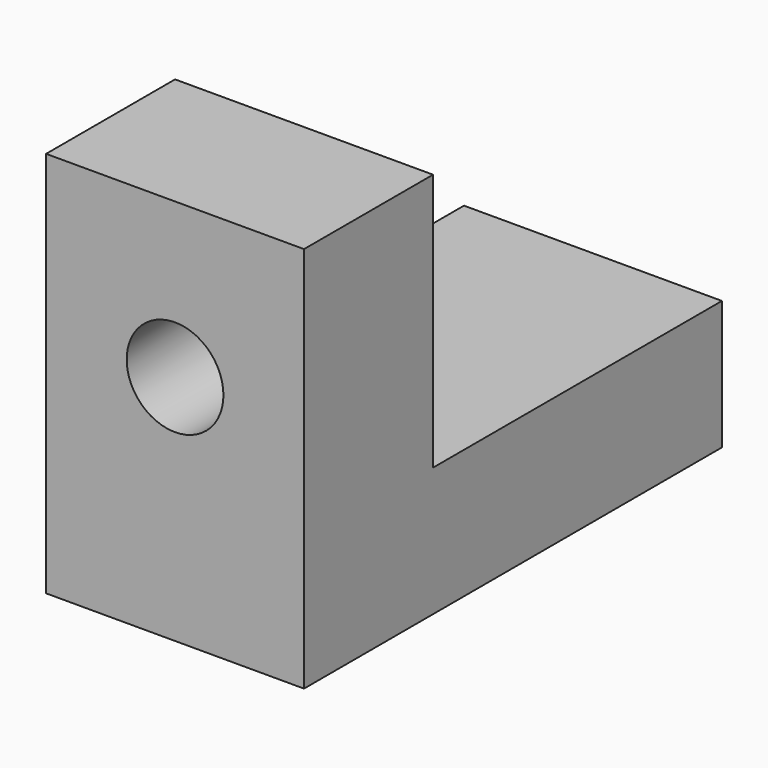
from build123d import *

# Parameters (mm, degrees)
F0_W     = 25.4
F0_H     = 15.875
F1_DEPTH = 38.1
F2_R     = 4.7625
F3_DEPTH = 254000
F4_W     = 25.4
F4_H     = 12.7
F5_DEPTH = 35.56


with BuildPart() as f1:
    # F0 (on Top) → F1 (new body)
    with BuildSketch(Plane.XY):
        with Locations((-45.274386, -11.600519)):
            Rectangle(F0_W, F0_H)
    extrude(amount=F1_DEPTH)

    # F2 (on face) → F3 (cut)
    with BuildSketch(Plane.XZ.offset(19.538019)):
        with Locations((-45.274386, 22.86)):
            Circle(F2_R)
    extrude(amount=-F3_DEPTH, mode=Mode.SUBTRACT)

    # F4 (on face) → F5 (join)
    with BuildSketch(Plane(origin=(0, -3.663019, 0), x_dir=(-1, 0, 0), z_dir=(0, 1, 0))):
        with Locations((45.274386, 6.35)):
            Rectangle(F4_W, F4_H)
    extrude(amount=F5_DEPTH)


solid = f1.part
